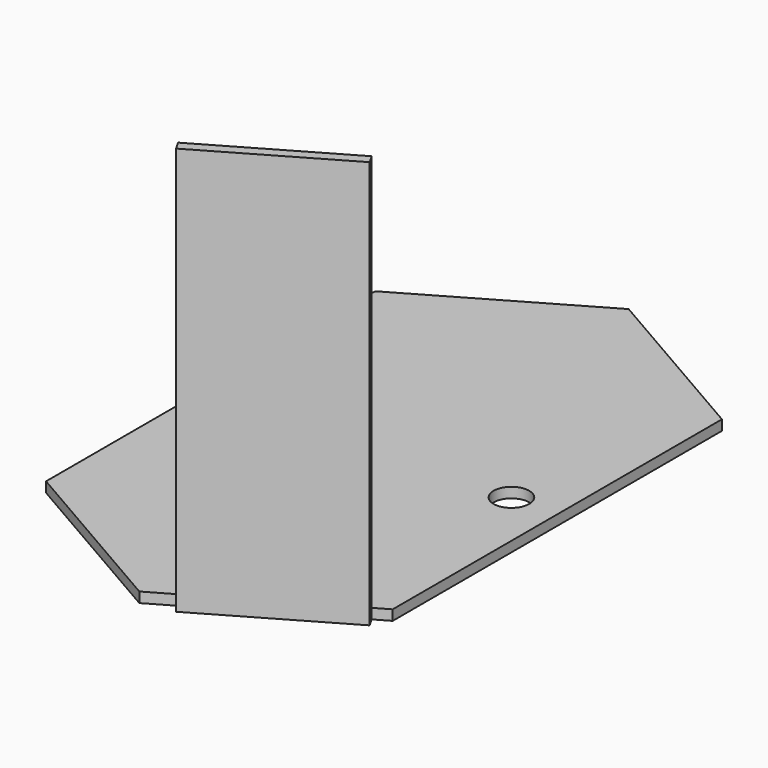
from build123d import *

# Parameters (mm, degrees)
F1_DEPTH = 1
F2_W     = 15
F2_H     = 40
F3_DEPTH = 1
F4_W     = 15
F4_H     = 50
F5_DEPTH = 25
F7_D     = 3.5


with BuildPart() as f1:
    # F0 (on Top) → F1 (new body)
    with BuildSketch(Plane.XY):
        Polygon((25.980762, -15), (25.980762, 15), (0, 30), (-25.980762, 15), (-25.980762, -15), (0, -30), align=None)
    extrude(amount=F1_DEPTH)

    # F4 (on face) → F5 (cut)
    with BuildSketch(Plane.XY.offset(1)):
        with Locations((-24.5, 0)):
            Rectangle(F4_W, F4_H)
        with Locations((24.5, 0)):
            Rectangle(F4_W, F4_H)
    extrude(amount=-F5_DEPTH, mode=Mode.SUBTRACT)

    # F7 (through all)
    with Locations(Plane.XY.offset(1)):
        with Locations((12.5, 0), (-12.5, 0)):
            Hole(F7_D / 2)


with BuildPart() as f3:
    # F2 (on face) → F3 (new body)
    with BuildSketch(Plane(origin=(12.990381, -22.5, 0), x_dir=(0.866025, 0.5, 0), z_dir=(0.5, -0.866025, 0))):
        with Locations((-4.5, 20)):
            Rectangle(F2_W, F2_H)
    extrude(amount=F3_DEPTH)


solid = Compound([f1.part, f3.part])
